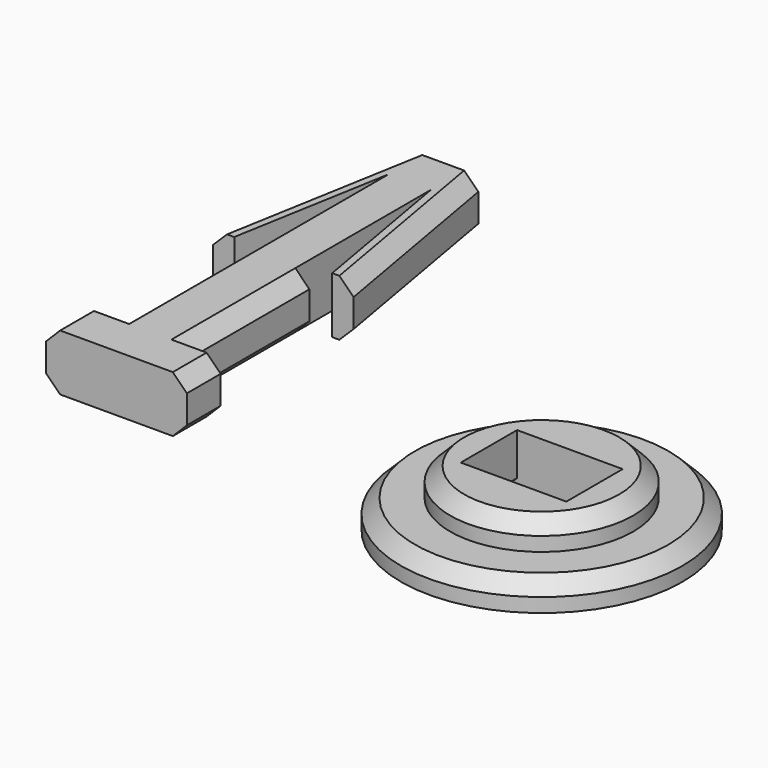
from build123d import *

# Parameters (mm, degrees)
F1_DEPTH = 4
F2_R     = 6.5
F2_W     = 7.5
F2_H     = 5
F3_DEPTH = 2
F4_SIZE  = 1
F5_SIZE  = 1
F6_R     = 10
F6_W     = 7.5
F6_H     = 5
F7_DEPTH = 2
F8_SIZE  = 1


with BuildPart() as f1:
    # F0 (on Top) → F1 (new body)
    with BuildSketch(Plane.XY):
        Polygon((-2.5, 29), (-5, 14.8), (-3.476931, 14.8), (-1.5, 26.028965), (-1.5, 14), (-2.5, 14), (-2.5, 3), (-5, 3), (-5, 0), (5, 0), (5, 3), (2.5, 3), (2.5, 14), (1.5, 14), (1.5, 26.028965), (3.476931, 14.8), (5, 14.8), (2.5, 29), align=None)
    extrude(amount=F1_DEPTH)

    # F4
    f4_edges = [f1.edges().sort_by_distance(p)[0] for p in [
        (2.5, 8.5, 0),
        (3.75, 21.9, 0),
        (-2.5, 8.5, 0),
        (-3.75, 21.9, 0),
        (-2.5, 8.5, 4),
        (2.5, 8.5, 4),
        (3.75, 21.9, 4),
        (-3.75, 21.9, 4),
    ]]
    chamfer(f4_edges, length=F4_SIZE)

    # F5
    f5_edges = [f1.edges().sort_by_distance(p)[0] for p in [
        (5, 1.5, 0),
        (-5, 1.5, 0),
        (-5, 1.5, 4),
        (5, 1.5, 4),
    ]]
    chamfer(f5_edges, length=F5_SIZE)


with BuildPart() as f3:
    # F2 (on Top) → F3 (new body)
    with BuildSketch(Plane.XY):
        with Locations((24.604785, 6.99003)):
            Circle(F2_R)
        with Locations((24.604785, 6.99003)):
            Rectangle(F2_W, F2_H, mode=Mode.SUBTRACT)
    extrude(amount=F3_DEPTH)

    # F6 (on face) → F7 (join)
    with BuildSketch(Plane(origin=(0, 0, 0), x_dir=(1, 0, 0), z_dir=(0, 0, -1))):
        with Locations((24.604785, -6.99003)):
            Circle(F6_R)
        with Locations((24.604785, -6.99003)):
            Rectangle(F6_W, F6_H, mode=Mode.SUBTRACT)
    extrude(amount=F7_DEPTH)

    # F8
    f8_edges = [f3.edges().sort_by_distance(p)[0] for p in [
        (20.854785, 6.99003, -2),
        (28.354785, 6.99003, -2),
        (18.104785, 6.99003, 2),
        (14.604785, 6.99003, 0),
    ]]
    chamfer(f8_edges, length=F8_SIZE)


solid = Compound([f1.part, f3.part])
